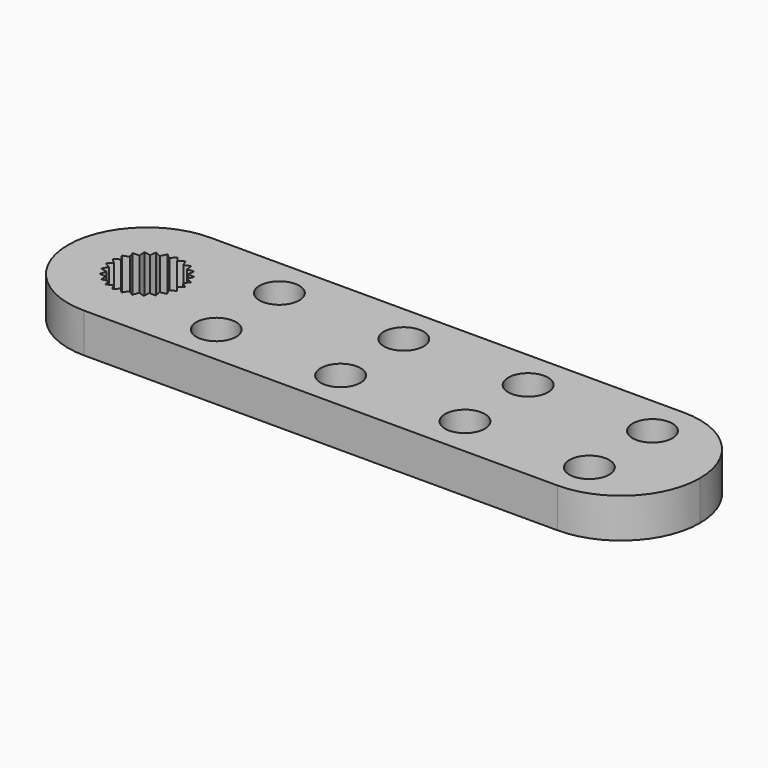
from build123d import *

# Parameters (mm, degrees)
F0_R     = 1.6
F1_DEPTH = 3.175


with BuildPart() as f1:
    # F0 (on Top) → F1 (new body)
    with BuildSketch(Plane.XY):
        with BuildLine():
            Line((38.1, 6.35), (0, 6.35))
            ThreePointArc((0, 6.35), (-4.490128, 4.490128), (-6.35, 0))
            ThreePointArc((-6.35, 0), (-4.490128, -4.490128), (0, -6.35))
            Line((0, -6.35), (38.1, -6.35))
            ThreePointArc((38.1, -6.35), (42.590128, -4.490128), (44.45, 0))
            ThreePointArc((44.45, 0), (42.590128, 4.490128), (38.1, 6.35))
        make_face()
        with Locations((8.1, -3.175)):
            Circle(F0_R, mode=Mode.SUBTRACT)
        with Locations((18.1, -3.175)):
            Circle(F0_R, mode=Mode.SUBTRACT)
        with Locations((28.1, -3.175)):
            Circle(F0_R, mode=Mode.SUBTRACT)
        with Locations((38.1, -3.175)):
            Circle(F0_R, mode=Mode.SUBTRACT)
        Polygon((-2.313127, 1.150841), (-2.481189, 1.651718), (-1.954254, 1.689937), (-1.992473, 2.216873), (-1.472587, 2.122848), (-1.378562, 2.642733), (-0.898392, 2.422372), (-0.678031, 2.902541), (-0.267748, 2.56969), (0.065104, 2.979972), (0.37972, 2.555544), (0.804147, 2.87016), (1.003328, 2.380825), (1.492663, 2.580005), (1.563894, 2.056509), (2.08739, 2.12774), (2.026194, 1.602976), (2.550958, 1.54178), (2.361181, 1.048721), (2.85424, 0.858945), (2.547807, 0.428572), (2.97818, 0.122139), (2.574344, -0.218506), (2.914989, -0.622342), (2.439126, -0.851855), (2.668639, -1.327718), (2.150649, -1.431678), (2.254609, -1.949669), (1.727038, -1.921544), (1.698914, -2.449115), (1.194912, -2.290672), (1.036469, -2.794674), (0.587704, -2.515869), (0.308899, -2.964634), (-0.056431, -2.582985), (-0.43808, -2.948314), (-0.69702, -2.487802), (-1.157533, -2.746742), (-1.293813, -2.236301), (-1.804254, -2.372581), (-1.809311, -1.844285), (-2.337607, -1.849342), (-2.211123, -1.336386), (-2.724079, -1.209903), (-2.474002, -0.744517), (-2.939388, -0.494441), (-2.581431, -0.105868), (-2.970004, 0.252089), (-2.526659, 0.539434), (-2.814004, 0.982779), align=None, mode=Mode.SUBTRACT)
        with Locations((8.1, 3.175)):
            Circle(F0_R, mode=Mode.SUBTRACT)
        with Locations((18.1, 3.175)):
            Circle(F0_R, mode=Mode.SUBTRACT)
        with Locations((28.1, 3.175)):
            Circle(F0_R, mode=Mode.SUBTRACT)
        with Locations((38.1, 3.175)):
            Circle(F0_R, mode=Mode.SUBTRACT)
    extrude(amount=F1_DEPTH)


solid = f1.part
